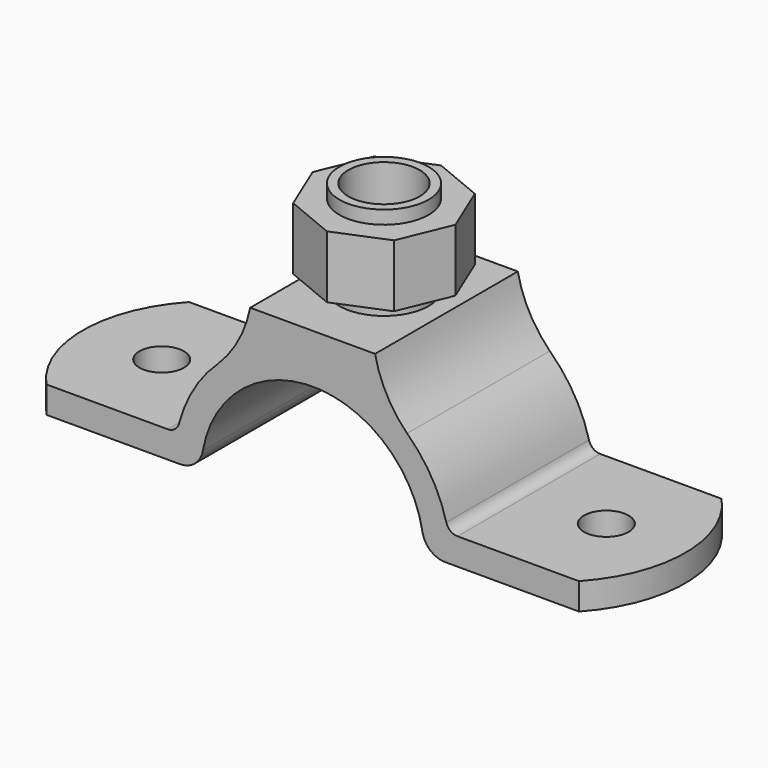
from build123d import *

# Parameters (mm, degrees)
F1_DEPTH  = 10
F2_R      = 2.5
F3_DEPTH  = 25
F5_DEPTH  = 3
F7_DEPTH  = 3
F8_R      = 5
F9_DEPTH  = 2
F11_DEPTH = 7
F12_R     = 5
F12_R_2   = 4
F13_DEPTH = 1.5
F14_DEPTH = 11


with BuildPart() as f1:
    # F0 (on Front) → F1 (new body, symmetric)
    with BuildSketch(Plane.XZ):
        with BuildLine():
            ThreePointArc((-7, 18), (-8.2975682269, 14.3901805601), (-10.5921510788, 11.3161979271))
            ThreePointArc((-10.5921510788, 11.3161979271), (-13.3053586993, 7.950938931), (-14.9836855606, 3.9672619048))
            ThreePointArc((-14.9836855606, 3.9672619048), (-15.4474629596, 3.2698156661), (-16.2403817689, 3))
            Line((-16.2403817689, 3), (-29.85, 3))
            Line((-29.85, 3), (-29.85, 0))
            Line((-29.85, 0), (-14.8744747806, 0))
            ThreePointArc((-14.8744747806, 0), (-13.2017484895, 0.6095259974), (-12.3133069376, 2.1523178808))
            ThreePointArc((-12.3133069376, 2.1523178808), (0, 12.5), (12.3133069376, 2.1523178808))
            ThreePointArc((12.3133069376, 2.1523178808), (13.2017484895, 0.6095259974), (14.8744747806, 0))
            Line((14.8744747806, 0), (29.85, 0))
            Line((29.85, 0), (29.85, 3))
            Line((29.85, 3), (16.2403817689, 3))
            ThreePointArc((16.2403817689, 3), (15.4474629596, 3.2698156661), (14.9836855606, 3.9672619048))
            ThreePointArc((14.9836855606, 3.9672619048), (13.3053586993, 7.950938931), (10.5921510788, 11.3161979271))
            ThreePointArc((10.5921510788, 11.3161979271), (8.2975682269, 14.3901805601), (7, 18))
            Line((7, 18), (-7, 18))
        make_face()
    extrude(amount=F1_DEPTH, both=True)

    # F2 (on face) → F3 (cut)
    with BuildSketch(Plane.XY.offset(3)):
        with Locations((-24.92, 0)):
            Circle(F2_R)
        with Locations((24.92, 0)):
            Circle(F2_R)
    extrude(amount=-F3_DEPTH, mode=Mode.SUBTRACT)

    # F4 (on face) → F5 (join, through all)
    with BuildSketch(Plane.XY.offset(3)):
        with BuildLine():
            Line((-29.85, -10), (-29.85, 10))
            ThreePointArc((-29.85, 10), (-33.7754930507, 0), (-29.85, -10))
        make_face()
    extrude(amount=-F5_DEPTH)

    # F6 (on face) → F7 (join, through all)
    with BuildSketch(Plane.XY.offset(3)):
        with BuildLine():
            Line((29.85, 10), (29.85, -10))
            ThreePointArc((29.85, -10), (33.7754930507, 0), (29.85, 10))
        make_face()
    extrude(amount=-F7_DEPTH)

    # F8 (on face) → F9 (join)
    with BuildSketch(Plane.XY.offset(18)):
        Circle(F8_R)
    extrude(amount=F9_DEPTH)

    # F10 (on face) → F11 (join)
    with BuildSketch(Plane.XY.offset(20)):
        Polygon((-5.6568542495, -5.6568542495), (0, -8), (5.6568542495, -5.6568542495), (8, 0), (5.6568542495, 5.6568542495), (0, 8), (-5.6568542495, 5.6568542495), (-8, 0), align=None)
    extrude(amount=F11_DEPTH)

    # F12 (on face) → F13 (join)
    with BuildSketch(Plane.XY.offset(27)):
        Circle(F12_R)
        Circle(F12_R_2, mode=Mode.SUBTRACT)
    extrude(amount=F13_DEPTH)

    # F14 (cut): a face of the model
    f14_faces = [f1.faces().sort_by_distance(p)[0] for p in [
        (0, 0, 27),
    ]]
    extrude(f14_faces, amount=-F14_DEPTH, mode=Mode.SUBTRACT)


solid = f1.part
